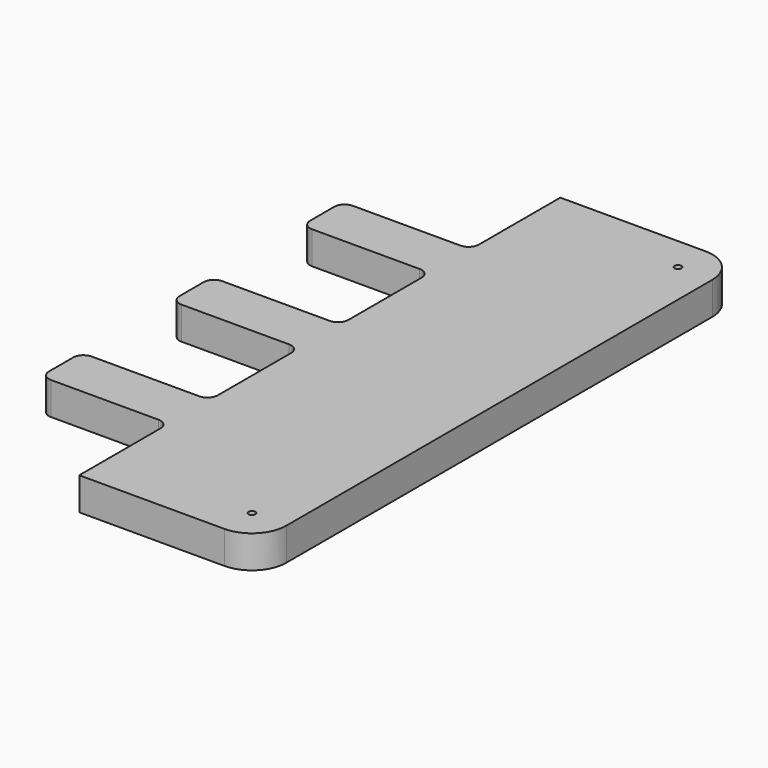
from build123d import *

# Parameters (mm, degrees)
PAD014_DEPTH    = 19
FILLET002_R     = 20
FILLET003_R     = 6
SKETCH029_R     = 2
POCKET019_DEPTH = 19.001


with BuildPart() as part:
    # Sketch017 → Pad014 (new body)
    with BuildSketch(Plane.XY):
        Polygon((275, 216.2), (379.498932, 216.2), (379.498932, -133.8), (275, -133.8), (275, -68.6), (200.4, -68.6), (200.4, -39), (275, -39), (275, 26.4), (200.4, 26.4), (200.4, 56), (275, 56), (275, 121.4), (200.4, 121.4), (200.4, 151), (275, 151), align=None)
    extrude(amount=-PAD014_DEPTH)

    # Fillet002
    fillet002_edges = [part.edges().sort_by_distance(p)[0] for p in [
        (379.498932, 216.2, -9.5),
        (379.498932, -133.8, -9.5),
    ]]
    fillet(fillet002_edges, radius=FILLET002_R)

    # Fillet003
    fillet003_edges = [part.edges().sort_by_distance(p)[0] for p in [
        (200.4, 151, -9.5),
        (200.4, 121.4, -9.5),
        (200.4, 26.4, -9.5),
        (200.4, 56, -9.5),
        (200.4, -39, -9.5),
        (200.4, -68.6, -9.5),
        (275, 151, -9.5),
        (275, 121.4, -9.5),
        (275, 26.4, -9.5),
        (275, -68.6, -9.5),
        (275, -39, -9.5),
        (275, 56, -9.5),
    ]]
    fillet(fillet003_edges, radius=FILLET003_R)

    # Sketch029 (on Face32 of Fillet003) → Pocket019 (cut, through all)
    with BuildSketch(Plane(origin=(0, 0, -19), x_dir=(1, 0, 0), z_dir=(0, 0, -1))):
        with Locations((359.498932, 113.8)):
            Circle(SKETCH029_R)
        with Locations((359.498932, -196.2)):
            Circle(SKETCH029_R)
    extrude(amount=-POCKET019_DEPTH, mode=Mode.SUBTRACT)


with BuildPart() as part_1:
    # Body010 placement: moved
    add(part.part.moved(Location((0, 0, -9))))


with BuildPart() as part_2:
    # Clone001 placement: moved
    add(part_1.part.moved(Location((-199.4, 134.8, 9))))


solid = part_2.part
